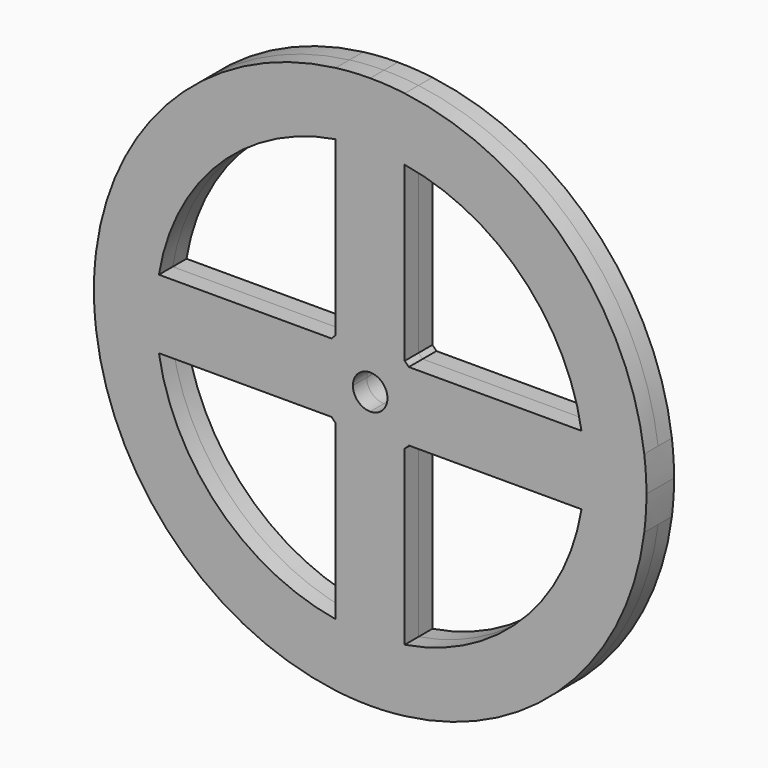
from build123d import *

# Parameters (mm, degrees)
F1_DEPTH = 2.5


with BuildPart() as f1:
    # F0 (on Front) → F1 (new body, symmetric)
    with BuildSketch(Plane.XZ):
        with BuildLine():
            Line((31, 0), (40, 0))
            ThreePointArc((40, 0), (39.921490373, 2.5049164455), (39.68626968, 4.9999998882))
            Line((39.68626968, 4.9999998882), (30.5941170998, 4.9999998882))
            ThreePointArc((30.5941170998, 4.9999998882), (30.8983626596, 2.5082234655), (31, 0))
        make_face()
        with BuildLine():
            ThreePointArc((39.686269666, -5), (39.9214903695, -2.5049165017), (40, 0))
            Line((40, 0), (31, 0))
            ThreePointArc((31, 0), (30.8983626551, -2.5082235219), (30.5941170816, -5))
            Line((30.5941170816, -5), (39.686269666, -5))
        make_face()
        with BuildLine():
            Line((30.5941170998, 4.9999998882), (39.68626968, 4.9999998882))
            ThreePointArc((39.68626968, 4.9999998882), (28.2842712674, 28.2842712275), (4.9999999441, 39.686269673))
            Line((4.9999998882, 39.686269673), (4.9999998882, 30.5941170907))
            ThreePointArc((4.9999999441, 30.5941170907), (21.9203102368, 21.9203101968), (30.5941170998, 4.9999998882))
        make_face()
        with BuildLine():
            ThreePointArc((4.9999998882, -39.68626968), (28.2842712076, -28.2842712873), (39.686269666, -5))
            Line((39.686269666, -5), (30.5941170816, -5))
            ThreePointArc((30.5941170816, -5), (21.9203101767, -21.9203102568), (4.9999998882, -30.5941170998))
            Line((4.9999998882, -30.5941170998), (4.9999998882, -39.68626968))
        make_face()
        with BuildLine():
            Line((4.9999998882, 30.5941170907), (4.9999998882, 39.686269673))
            ThreePointArc((4.9999999441, 39.686269673), (2.5049164736, 39.9214903712), (0, 40))
            Line((0, 40), (0, 31))
            ThreePointArc((0, 31), (2.5082234937, 30.8983626574), (4.9999999441, 30.5941170907))
        make_face()
        with BuildLine():
            ThreePointArc((0, -40), (2.5049164455, -39.921490373), (4.9999998882, -39.68626968))
            Line((4.9999998882, -39.68626968), (4.9999998882, -30.5941170998))
            ThreePointArc((4.9999998882, -30.5941170998), (2.5082234655, -30.8983626596), (0, -31))
            Line((0, -31), (0, -40))
        make_face()
        with BuildLine():
            Line((0, 31), (0, 40))
            ThreePointArc((0, 40), (-2.5049164455, 39.921490373), (-4.9999998882, 39.68626968))
            Line((-4.9999998882, 39.68626968), (-4.9999998882, 30.5941170998))
            ThreePointArc((-4.9999998882, 30.5941170998), (-2.5082234655, 30.8983626596), (0, 31))
        make_face()
        with BuildLine():
            ThreePointArc((-5, -39.686269666), (-2.5049165017, -39.9214903695), (0, -40))
            Line((0, -40), (0, -31))
            ThreePointArc((0, -31), (-2.5082235219, -30.8983626551), (-5, -30.5941170816))
            Line((-5, -30.5941170816), (-5, -39.686269666))
        make_face()
        with BuildLine():
            Line((-4.9999998882, 30.5941170998), (-4.9999998882, 39.68626968))
            ThreePointArc((-4.9999998882, 39.68626968), (-28.2842712076, 28.2842712873), (-39.686269666, 5))
            Line((-39.686269666, 5), (-30.5941170816, 5))
            ThreePointArc((-30.5941170816, 5), (-21.9203101767, 21.9203102568), (-4.9999998882, 30.5941170998))
        make_face()
        with BuildLine():
            ThreePointArc((-39.68626968, -4.9999998882), (-28.2842712873, -28.2842712076), (-5, -39.686269666))
            Line((-5, -39.686269666), (-5, -30.5941170816))
            ThreePointArc((-5, -30.5941170816), (-21.9203102568, -21.9203101767), (-30.5941170998, -4.9999998882))
            Line((-30.5941170998, -4.9999998882), (-39.68626968, -4.9999998882))
        make_face()
        with BuildLine():
            Line((-30.5941170816, 5), (-39.686269666, 5))
            ThreePointArc((-39.686269666, 5), (-39.9214903695, 2.5049165017), (-40, 0))
            Line((-40, 0), (-31, 0))
            ThreePointArc((-31, 0), (-30.8983626551, 2.5082235219), (-30.5941170816, 5))
        make_face()
        with BuildLine():
            ThreePointArc((-40, 0), (-39.921490373, -2.5049164455), (-39.68626968, -4.9999998882))
            Line((-39.68626968, -4.9999998882), (-30.5941170998, -4.9999998882))
            ThreePointArc((-30.5941170998, -4.9999998882), (-30.8983626596, -2.5082234655), (-31, 0))
            Line((-31, 0), (-40, 0))
        make_face()
        with BuildLine():
            Line((4.9999998882, 5.5901699937), (4.9999998882, 30.5941170907))
            ThreePointArc((4.9999999441, 30.5941170907), (2.5082234937, 30.8983626574), (0, 31))
            Line((0, 31), (0, 7.5))
            ThreePointArc((0, 7.5), (2.6761656383, 7.0062927056), (4.9999999441, 5.5901699937))
        make_face()
        with BuildLine():
            Line((0, 7.5), (0, 31))
            ThreePointArc((0, 31), (-2.5082234655, 30.8983626596), (-4.9999998882, 30.5941170998))
            Line((-4.9999998882, 30.5941170998), (-4.9999998882, 5.5901700437))
            ThreePointArc((-4.9999998882, 5.5901700437), (-2.6761656033, 7.006292719), (0, 7.5))
        make_face()
        with BuildLine():
            Line((-5.5901699437, 5), (-30.5941170816, 5))
            ThreePointArc((-30.5941170816, 5), (-30.8983626551, 2.5082235219), (-31, 0))
            Line((-31, 0), (-7.5, 0))
            ThreePointArc((-7.5, 0), (-7.0062926922, 2.6761656733), (-5.5901699437, 5))
        make_face()
        with BuildLine():
            ThreePointArc((-31, 0), (-30.8983626596, -2.5082234655), (-30.5941170998, -4.9999998882))
            Line((-30.5941170998, -4.9999998882), (-5.5901700437, -4.9999998882))
            ThreePointArc((-5.5901700437, -4.9999998882), (-7.006292719, -2.6761656033), (-7.5, 0))
            Line((-7.5, 0), (-31, 0))
        make_face()
        with BuildLine():
            ThreePointArc((-5, -30.5941170816), (-2.5082235219, -30.8983626551), (0, -31))
            Line((0, -31), (0, -7.5))
            ThreePointArc((0, -7.5), (-2.6761656733, -7.0062926922), (-5, -5.5901699437))
            Line((-5, -5.5901699437), (-5, -30.5941170816))
        make_face()
        with BuildLine():
            ThreePointArc((0, -31), (2.5082234655, -30.8983626596), (4.9999998882, -30.5941170998))
            Line((4.9999998882, -30.5941170998), (4.9999998882, -5.5901700437))
            ThreePointArc((4.9999998882, -5.5901700437), (2.6761656033, -7.006292719), (0, -7.5))
            Line((0, -7.5), (0, -31))
        make_face()
        with BuildLine():
            ThreePointArc((30.5941170816, -5), (30.8983626551, -2.5082235219), (31, 0))
            Line((31, 0), (7.5, 0))
            ThreePointArc((7.5, 0), (7.0062926922, -2.6761656733), (5.5901699437, -5))
            Line((5.5901699437, -5), (30.5941170816, -5))
        make_face()
        with BuildLine():
            Line((7.5, 0), (31, 0))
            ThreePointArc((31, 0), (30.8983626596, 2.5082234655), (30.5941170998, 4.9999998882))
            Line((30.5941170998, 4.9999998882), (5.5901700437, 4.9999998882))
            ThreePointArc((5.5901700437, 4.9999998882), (7.006292719, 2.6761656033), (7.5, 0))
        make_face()
        with BuildLine():
            Line((4.9999999255, 0), (7.5, 0))
            ThreePointArc((7.5, 0), (7.006292719, 2.6761656033), (5.5901700437, 4.9999998882))
            Line((5.5901700437, 4.9999998882), (4.9999999441, 4.9999998882))
            Line((4.9999998882, 4.9999998882), (4.9999998882, 0))
        make_face()
        with BuildLine():
            Line((2.5, 0), (4.9999999255, 0))
            Line((4.9999998882, 0), (4.9999998882, 4.9999998882))
            Line((4.9999999441, 4.9999998882), (0, 4.9999998882))
            Line((0, 4.9999999441), (0, 2.5))
            ThreePointArc((0, 2.5), (1.767766953, 1.767766953), (2.5, 0))
        make_face()
        with BuildLine():
            Line((4.9999998882, 4.9999998882), (4.9999998882, 5.5901699937))
            ThreePointArc((4.9999999441, 5.5901699937), (2.6761656383, 7.0062927056), (0, 7.5))
            Line((0, 7.5), (0, 4.9999999441))
            Line((0, 4.9999998882), (4.9999999441, 4.9999998882))
        make_face()
        with BuildLine():
            Line((0, 4.9999999441), (0, 7.5))
            ThreePointArc((0, 7.5), (-2.6761656033, 7.006292719), (-4.9999998882, 5.5901700437))
            Line((-4.9999998882, 5.5901700437), (-4.9999998882, 5))
            Line((-4.9999998882, 5), (0, 5))
        make_face()
        with BuildLine():
            Line((0, 2.5), (0, 4.9999999441))
            Line((0, 5), (-4.9999998882, 5))
            Line((-4.9999998882, 5), (-4.9999998882, 0))
            Line((-4.9999999441, 0), (-2.5, 0))
            ThreePointArc((-2.5, 0), (-1.767766953, 1.767766953), (0, 2.5))
        make_face()
        with BuildLine():
            Line((-4.9999998882, 0), (-4.9999998882, 5))
            Line((-4.9999998882, 5), (-5.5901699437, 5))
            ThreePointArc((-5.5901699437, 5), (-7.0062926922, 2.6761656733), (-7.5, 0))
            Line((-7.5, 0), (-4.9999999441, 0))
        make_face()
        with BuildLine():
            Line((-5.5901700437, -4.9999998882), (-5, -4.9999998882))
            Line((-5, -4.9999998882), (-5, 0))
            Line((-4.9999999441, 0), (-7.5, 0))
            ThreePointArc((-7.5, 0), (-7.006292719, -2.6761656033), (-5.5901700437, -4.9999998882))
        make_face()
        with BuildLine():
            Line((-5, -4.9999998882), (0, -4.9999998882))
            Line((0, -4.9999999441), (0, -2.5))
            ThreePointArc((0, -2.5), (-1.767766953, -1.767766953), (-2.5, 0))
            Line((-2.5, 0), (-4.9999999441, 0))
            Line((-5, 0), (-5, -4.9999998882))
        make_face()
        with BuildLine():
            Line((4.9999998882, -5), (4.9999998882, 0))
            Line((4.9999999255, 0), (2.5, 0))
            ThreePointArc((2.5, 0), (1.767766953, -1.767766953), (0, -2.5))
            Line((0, -2.5), (0, -4.9999999441))
            Line((0, -5), (4.9999998882, -5))
        make_face()
        with BuildLine():
            ThreePointArc((5.5901699437, -5), (7.0062926922, -2.6761656733), (7.5, 0))
            Line((7.5, 0), (4.9999999255, 0))
            Line((4.9999998882, 0), (4.9999998882, -5))
            Line((4.9999998882, -5), (5.5901699437, -5))
        make_face()
        with BuildLine():
            ThreePointArc((0, -7.5), (2.6761656033, -7.006292719), (4.9999998882, -5.5901700437))
            Line((4.9999998882, -5.5901700437), (4.9999998882, -5))
            Line((4.9999998882, -5), (0, -5))
            Line((0, -4.9999999441), (0, -7.5))
        make_face()
        with BuildLine():
            Line((-4.9999998882, 5), (-4.9999998882, 5.5901700437))
            ThreePointArc((-4.9999998882, 5.5901700437), (-5.3033008059, 5.3033009119), (-5.5901699437, 5))
            Line((-5.5901699437, 5), (-4.9999998882, 5))
        make_face()
        with BuildLine():
            ThreePointArc((-5.5901700437, -4.9999998882), (-5.3033009119, -5.3033008059), (-5, -5.5901699437))
            Line((-5, -5.5901699437), (-5, -4.9999998882))
            Line((-5, -4.9999998882), (-5.5901700437, -4.9999998882))
        make_face()
        with BuildLine():
            ThreePointArc((-5, -5.5901699437), (-2.6761656733, -7.0062926922), (0, -7.5))
            Line((0, -7.5), (0, -4.9999999441))
            Line((0, -4.9999998882), (-5, -4.9999998882))
            Line((-5, -4.9999998882), (-5, -5.5901699437))
        make_face()
        with BuildLine():
            ThreePointArc((4.9999998882, -5.5901700437), (5.3033008059, -5.3033009119), (5.5901699437, -5))
            Line((5.5901699437, -5), (4.9999998882, -5))
            Line((4.9999998882, -5), (4.9999998882, -5.5901700437))
        make_face()
        with BuildLine():
            Line((4.9999999441, 4.9999998882), (5.5901700437, 4.9999998882))
            ThreePointArc((5.5901700437, 4.9999998882), (5.3033008854, 5.3033008324), (4.9999999441, 5.5901699937))
            Line((4.9999998882, 5.5901699937), (4.9999998882, 4.9999998882))
        make_face()
    extrude(amount=F1_DEPTH, both=True)


solid = f1.part
